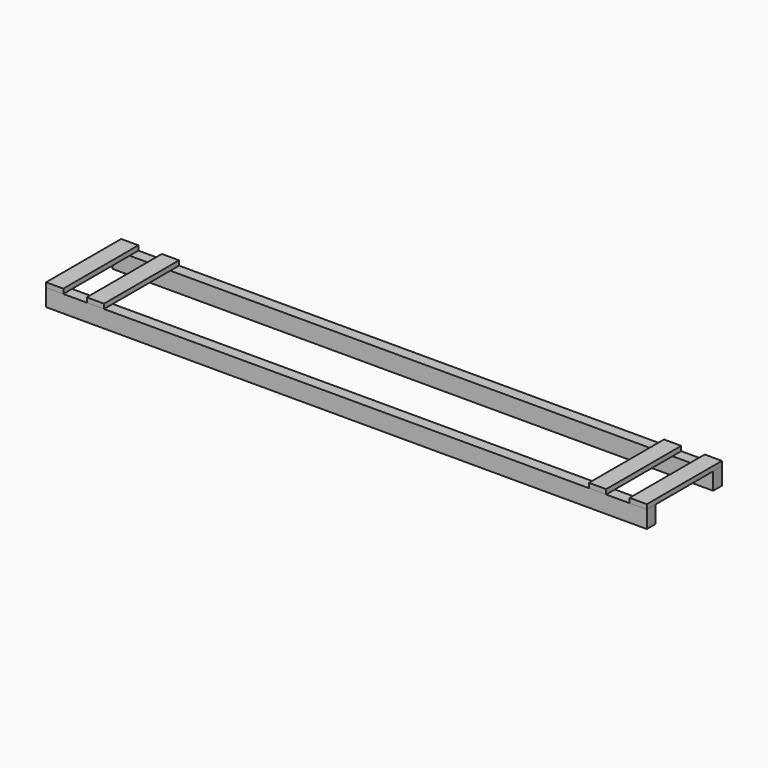
from build123d import *

# Parameters (mm, degrees)
F0_W     = 88.9
F0_H     = 139.7
F1_DEPTH = 2438.4
F2_W     = 139.7
F2_H     = 38.1
F3_DEPTH = 762


with BuildPart() as f1:
    # F0 (on Right) → F1 (new body, symmetric)
    with BuildSketch(Plane.YZ):
        with Locations((-336.55, 69.85)):
            Rectangle(F0_W, F0_H)
        with Locations((336.55, 69.85)):
            Rectangle(F0_W, F0_H)
    extrude(amount=F1_DEPTH, both=True)


with BuildPart() as f3:
    # F2 (on face) → F3 (new body)
    with BuildSketch(Plane.XZ.offset(381)):
        with Locations((2368.55, 158.75)):
            Rectangle(F2_W, F2_H)
        with Locations((2038.35, 158.75)):
            Rectangle(F2_W, F2_H)
    extrude(amount=-F3_DEPTH)


with BuildPart() as f4_1:
    # F4: instance of F3
    add(f3.part.mirror(Plane.YZ))


solid = Compound([f1.part, f3.part, f4_1.part])
